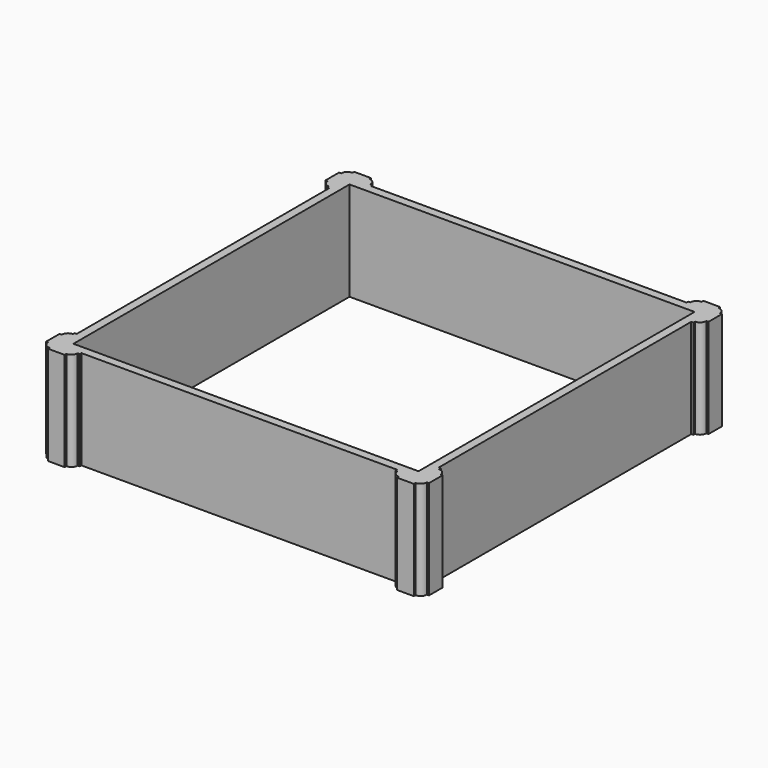
from build123d import *

# Parameters (mm, degrees)
F1_DEPTH = 298.45
F2_W     = 1041.4
F2_H     = 1041.4
F3_DEPTH = 298.451


with BuildPart() as f1:
    # F0 (on Top) → F1 (new body)
    with BuildSketch(Plane.XY):
        with BuildLine():
            Line((-552.45, 476.25), (-546.1, 476.25))
            Line((-546.1, 476.25), (-546.1, -476.25))
            Line((-546.1, -476.25), (-552.45, -476.25))
            Line((-552.45, -476.25), (-552.45, -482.6))
            ThreePointArc((-552.45, -482.6), (-565.920384, -488.179616), (-571.5, -501.65))
            Line((-571.5, -501.65), (-577.85, -501.65))
            Line((-577.85, -501.65), (-577.85, -552.45))
            Line((-577.85, -552.45), (-571.5, -552.45))
            ThreePointArc((-571.5, -552.45), (-565.920384, -565.920384), (-552.45, -571.5))
            Line((-552.45, -571.5), (-552.45, -577.85))
            Line((-552.45, -577.85), (-501.65, -577.85))
            Line((-501.65, -577.85), (-501.65, -571.5))
            ThreePointArc((-501.65, -571.5), (-488.179616, -565.920384), (-482.6, -552.45))
            Line((-482.6, -552.45), (-476.25, -552.45))
            Line((-476.25, -552.45), (-476.25, -546.1))
            Line((-476.25, -546.1), (476.25, -546.1))
            Line((476.25, -546.1), (476.25, -552.45))
            Line((476.25, -552.45), (482.6, -552.45))
            ThreePointArc((482.6, -552.45), (488.179616, -565.920384), (501.65, -571.5))
            Line((501.65, -571.5), (501.65, -577.85))
            Line((501.65, -577.85), (552.45, -577.85))
            Line((552.45, -577.85), (552.45, -571.5))
            ThreePointArc((552.45, -571.5), (565.920384, -565.920384), (571.5, -552.45))
            Line((571.5, -552.45), (577.85, -552.45))
            Line((577.85, -552.45), (577.85, -501.65))
            Line((577.85, -501.65), (571.5, -501.65))
            ThreePointArc((571.5, -501.65), (565.920384, -488.179616), (552.45, -482.6))
            Line((552.45, -482.6), (552.45, -476.25))
            Line((552.45, -476.25), (546.1, -476.25))
            Line((546.1, -476.25), (546.1, 476.25))
            Line((546.1, 476.25), (552.45, 476.25))
            Line((552.45, 476.25), (552.45, 482.6))
            ThreePointArc((552.45, 482.6), (565.920384, 488.179616), (571.5, 501.65))
            Line((571.5, 501.65), (577.85, 501.65))
            Line((577.85, 501.65), (577.85, 552.45))
            Line((577.85, 552.45), (571.5, 552.45))
            ThreePointArc((571.5, 552.45), (565.920384, 565.920384), (552.45, 571.5))
            Line((552.45, 571.5), (552.45, 577.85))
            Line((552.45, 577.85), (501.65, 577.85))
            Line((501.65, 577.85), (501.65, 571.5))
            ThreePointArc((501.65, 571.5), (488.179616, 565.920384), (482.6, 552.45))
            Line((482.6, 552.45), (476.25, 552.45))
            Line((476.25, 552.45), (476.25, 546.1))
            Line((476.25, 546.1), (-476.25, 546.1))
            Line((-476.25, 546.1), (-476.25, 552.45))
            Line((-476.25, 552.45), (-482.6, 552.45))
            ThreePointArc((-482.6, 552.45), (-488.179616, 565.920384), (-501.65, 571.5))
            Line((-501.65, 571.5), (-501.65, 577.85))
            Line((-501.65, 577.85), (-552.45, 577.85))
            Line((-552.45, 577.85), (-552.45, 571.5))
            ThreePointArc((-552.45, 571.5), (-565.920384, 565.920384), (-571.5, 552.45))
            Line((-571.5, 552.45), (-577.85, 552.45))
            Line((-577.85, 552.45), (-577.85, 501.65))
            Line((-577.85, 501.65), (-571.5, 501.65))
            ThreePointArc((-571.5, 501.65), (-565.920384, 488.179616), (-552.45, 482.6))
            Line((-552.45, 482.6), (-552.45, 476.25))
        make_face()
    extrude(amount=F1_DEPTH)

    # F2 (on face) → F3 (cut, through all)
    with BuildSketch(Plane(origin=(0, 0, 0), x_dir=(1, 0, 0), z_dir=(0, 0, -1))):
        Rectangle(F2_W, F2_H)
    extrude(amount=-F3_DEPTH, mode=Mode.SUBTRACT)


solid = f1.part
